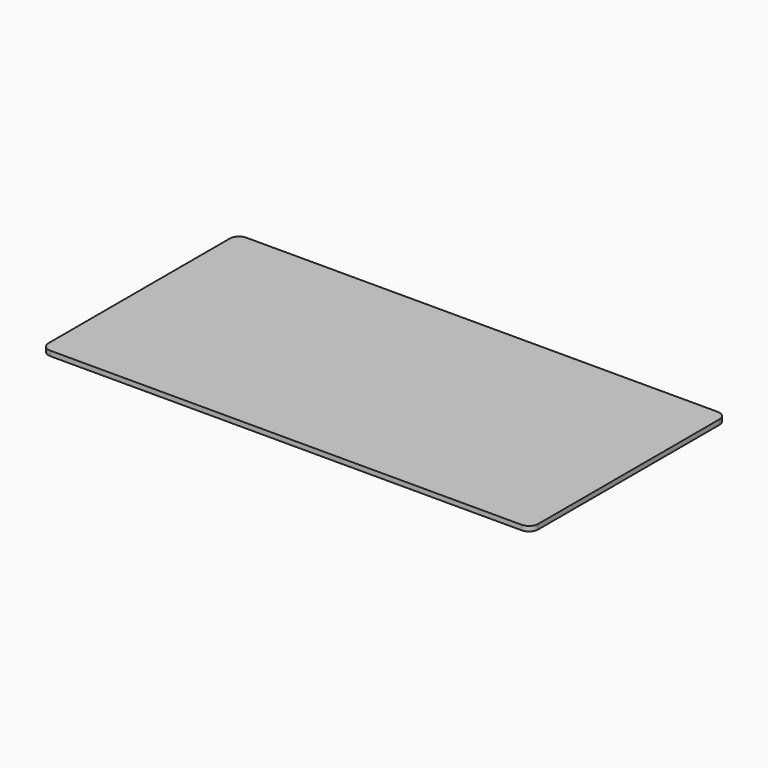
from build123d import *

# Parameters (mm, degrees)
PAD_DEPTH = 1.6


with BuildPart() as part:
    # Sketch → Pad (new body)
    with BuildSketch(Plane.XY):
        with BuildLine():
            Line((-77, 40), (77, 40))
            ThreePointArc((80, 37), (79.12132, 39.12132), (77, 40))
            Line((80, 37), (80, -37))
            ThreePointArc((77, -40), (79.12132, -39.12132), (80, -37))
            Line((77, -40), (-77, -40))
            ThreePointArc((-80, -37), (-79.12132, -39.12132), (-77, -40))
            Line((-80, -37), (-80, 37))
            ThreePointArc((-77, 40), (-79.12132, 39.12132), (-80, 37))
        make_face()
    extrude(amount=PAD_DEPTH)


solid = part.part
